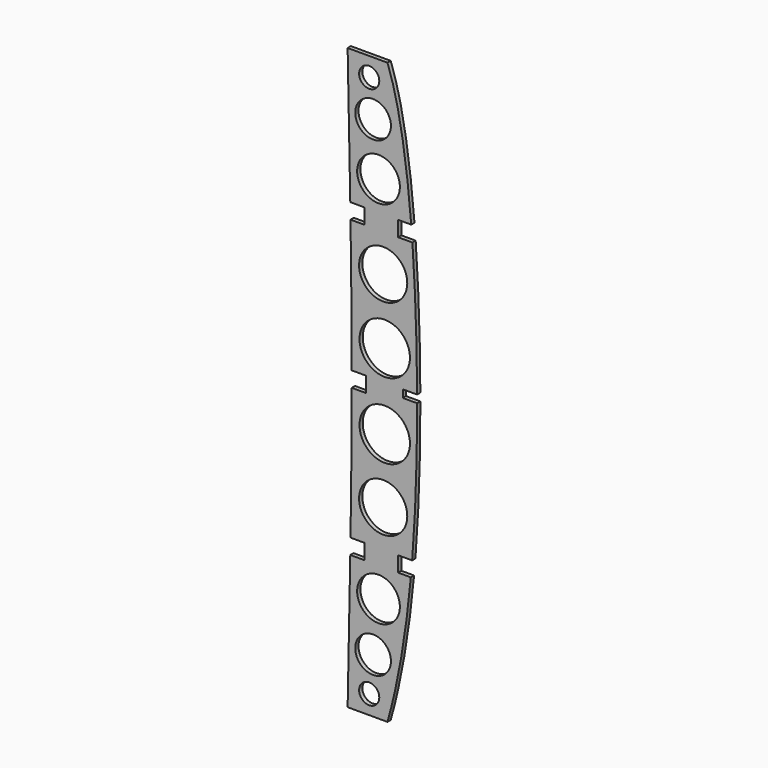
from build123d import *

# Parameters (mm, degrees)
F0_R     = 20.913693
F0_R_2   = 17.465472
F0_R_3   = 9.869676
F0_R_4   = 24.682403
F0_R_5   = 23.589378
F1_DEPTH = 4


with BuildPart() as f1:
    # F0 (on Front) → F1 (new body)
    with BuildSketch(Plane.XZ):
        with BuildLine():
            Line((-105.642843, 354.427334), (-144.642843, 354.427334))
            add(Edge.make_bspline(
                [(-144.642843, 354.427334), (-143.713265, 310.427334), (-142.783688, 266.427334), (-142.054926, 222.427334)],
                knots=[0, 0, 0, 0, 132.013092, 132.013092, 132.013092, 132.013092], degree=3))
            Line((-142.054926, 222.427334), (-128.054926, 222.427334))
            Line((-128.054926, 222.427334), (-128.054926, 214.927334))
            Line((-128.054926, 214.927334), (-95.232242, 214.927334))
            Line((-95.232242, 214.927334), (-95.232242, 222.427334))
            Line((-95.232242, 222.427334), (-82.397624, 222.427334))
            add(Edge.make_bspline(
                [(-105.642843, 354.427334), (-94.373968, 324.244912), (-86.922567, 276.685565), (-82.397624, 222.427334)],
                knots=[0, 0, 0, 0, 151.629613, 151.629613, 151.629613, 151.629613], degree=3))
        make_face()
        with Locations((-114.42259, 251.343668)):
            Circle(F0_R, mode=Mode.SUBTRACT)
        with Locations((-119.738169, 301.082313)):
            Circle(F0_R_2, mode=Mode.SUBTRACT)
        with Locations((-123.535015, 336.013287)):
            Circle(F0_R_3, mode=Mode.SUBTRACT)
        with BuildLine():
            Line((-128.054926, 207.427334), (-141.814558, 207.427334))
            add(Edge.make_bspline(
                [(-141.814558, 207.427334), (-141.146919, 164.260708), (-140.694523, 121.094083), (-140.646991, 77.927458)],
                knots=[147.01458, 147.01458, 147.01458, 147.01458, 276.5273, 276.5273, 276.5273, 276.5273], degree=3))
            add(Edge.make_bspline(
                [(-140.646991, 77.927458), (-140.646991, 77.927416), (-140.646991, 77.927375), (-140.646991, 77.927334)],
                knots=[276.5273, 276.5273, 276.5273, 276.5273, 276.527424, 276.527424, 276.527424, 276.527424], degree=3))
            Line((-140.646991, 77.927334), (-126.646991, 77.927334))
            Line((-126.646991, 77.927334), (-126.646991, 70.427334))
            Line((-126.646991, 70.427334), (-90.667988, 70.427334))
            Line((-90.667988, 70.427334), (-90.661724, 70.427334))
            Line((-90.661724, 70.427334), (-90.661724, 77.927334))
            Line((-90.661724, 77.927334), (-76.661724, 77.927334))
            add(Edge.make_bspline(
                [(-81.232242, 207.427334), (-78.239795, 165.975298), (-76.840765, 121.316902), (-76.661724, 77.927334)],
                knots=[165.454488, 165.454488, 165.454488, 165.454488, 278.926983, 278.926983, 278.926983, 278.926983], degree=3))
            Line((-81.232242, 207.427334), (-95.232242, 207.427334))
            Line((-95.232242, 207.427334), (-95.232242, 214.927334))
            Line((-95.232242, 214.927334), (-128.054926, 214.927334))
            Line((-128.054926, 214.927334), (-128.054926, 207.427334))
        make_face()
        with Locations((-108.347639, 107.443303)):
            Circle(F0_R_4, mode=Mode.SUBTRACT)
        with Locations((-109.866373, 170.85059)):
            Circle(F0_R_5, mode=Mode.SUBTRACT)
        with BuildLine():
            add(Edge.make_bspline(
                [(-142.054926, -81.572666), (-142.783688, -125.572666), (-143.713265, -169.572666), (-144.642843, -213.572666)],
                knots=[436.043243, 436.043243, 436.043243, 436.043243, 568.056335, 568.056335, 568.056335, 568.056335], degree=3))
            Line((-144.642843, -213.572666), (-105.642843, -213.572666))
            add(Edge.make_bspline(
                [(-82.791095, -81.572666), (-87.337348, -130.326688), (-94.669187, -174.905471), (-105.642843, -213.572666)],
                knots=[426.00823, 426.00823, 426.00823, 426.00823, 570.953588, 570.953588, 570.953588, 570.953588], degree=3))
            Line((-82.791095, -81.572666), (-95.232242, -81.572666))
            Line((-95.232242, -81.572666), (-95.232242, -74.072666))
            Line((-95.232242, -74.072666), (-95.232242, -66.572666))
            Line((-95.232242, -66.572666), (-81.489773, -66.572666))
            add(Edge.make_bspline(
                [(-76.642843, 70.427334), (-76.599115, 22.505564), (-78.028195, -23.539434), (-81.489773, -66.572666)],
                knots=[285.476794, 285.476794, 285.476794, 285.476794, 411.269799, 411.269799, 411.269799, 411.269799], degree=3))
            Line((-76.642843, 70.427334), (-90.661724, 70.427334))
            Line((-90.661724, 70.427334), (-90.667988, 70.427334))
            Line((-90.667988, 70.427334), (-126.646991, 70.427334))
            Line((-126.646991, 70.427334), (-126.646991, 62.927334))
            Line((-126.646991, 62.927334), (-140.646991, 62.927334))
            add(Edge.make_bspline(
                [(-140.646991, 62.927334), (-140.694522, 19.760667), (-141.146918, -23.405999), (-141.814558, -66.572666)],
                knots=[291.528911, 291.528911, 291.528911, 291.528911, 421.041756, 421.041756, 421.041756, 421.041756], degree=3))
            Line((-141.814558, -66.572666), (-128.054926, -66.572666))
            Line((-128.054926, -66.572666), (-128.054926, -74.072666))
            Line((-128.054926, -74.072666), (-128.054926, -81.572666))
            Line((-128.054926, -81.572666), (-142.054926, -81.572666))
        make_face()
        with Locations((-123.535015, -195.158619)):
            Circle(F0_R_3, mode=Mode.SUBTRACT)
        with Locations((-119.738169, -160.227645)):
            Circle(F0_R_2, mode=Mode.SUBTRACT)
        with Locations((-114.42259, -110.489)):
            Circle(F0_R, mode=Mode.SUBTRACT)
        with Locations((-109.866373, -29.995922)):
            Circle(F0_R_5, mode=Mode.SUBTRACT)
        with Locations((-108.347639, 33.411365)):
            Circle(F0_R_4, mode=Mode.SUBTRACT)
    extrude(amount=F1_DEPTH)


solid = f1.part
